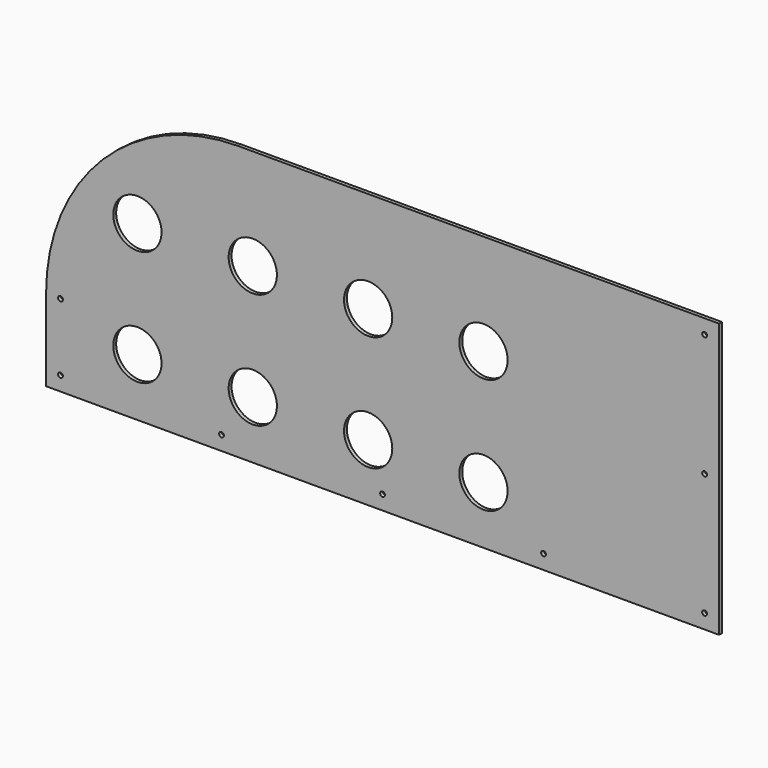
from build123d import *

# Parameters (mm, degrees)
F0_R     = 3.175
F0_R_2   = 31.877
F1_DEPTH = 4.7752


with BuildPart() as f1:
    # F0 (on Front) → F1 (new body)
    with BuildSketch(Plane.XZ):
        with BuildLine():
            Line((444.5, 180.975), (-190.5, 180.975))
            ThreePointArc((-190.5, 180.975), (-370.105122, 106.580122), (-444.5, -73.025))
            Line((-444.5, -73.025), (-444.5, -180.975))
            Line((-444.5, -180.975), (444.5, -180.975))
            Line((444.5, -180.975), (444.5, 180.975))
        make_face()
        with Locations((-425.45, -161.925)):
            Circle(F0_R, mode=Mode.SUBTRACT)
        with Locations((-323.85, -104.775)):
            Circle(F0_R_2, mode=Mode.SUBTRACT)
        with Locations((-212.725, -161.925)):
            Circle(F0_R, mode=Mode.SUBTRACT)
        with Locations((-171.45, -104.775)):
            Circle(F0_R_2, mode=Mode.SUBTRACT)
        with Locations((-19.05, -104.775)):
            Circle(F0_R_2, mode=Mode.SUBTRACT)
        with Locations((-425.45, -73.025)):
            Circle(F0_R, mode=Mode.SUBTRACT)
        with Locations((0, -161.925)):
            Circle(F0_R, mode=Mode.SUBTRACT)
        with Locations((212.725, -161.925)):
            Circle(F0_R, mode=Mode.SUBTRACT)
        with Locations((133.35, -104.775)):
            Circle(F0_R_2, mode=Mode.SUBTRACT)
        with Locations((425.45, -161.925)):
            Circle(F0_R, mode=Mode.SUBTRACT)
        with Locations((-323.85, 47.625)):
            Circle(F0_R_2, mode=Mode.SUBTRACT)
        with Locations((-171.45, 47.625)):
            Circle(F0_R_2, mode=Mode.SUBTRACT)
        with Locations((-19.05, 47.625)):
            Circle(F0_R_2, mode=Mode.SUBTRACT)
        with Locations((133.35, 47.625)):
            Circle(F0_R_2, mode=Mode.SUBTRACT)
        with Locations((425.45, 0)):
            Circle(F0_R, mode=Mode.SUBTRACT)
        with Locations((425.45, 161.925)):
            Circle(F0_R, mode=Mode.SUBTRACT)
    extrude(amount=F1_DEPTH)


solid = f1.part
